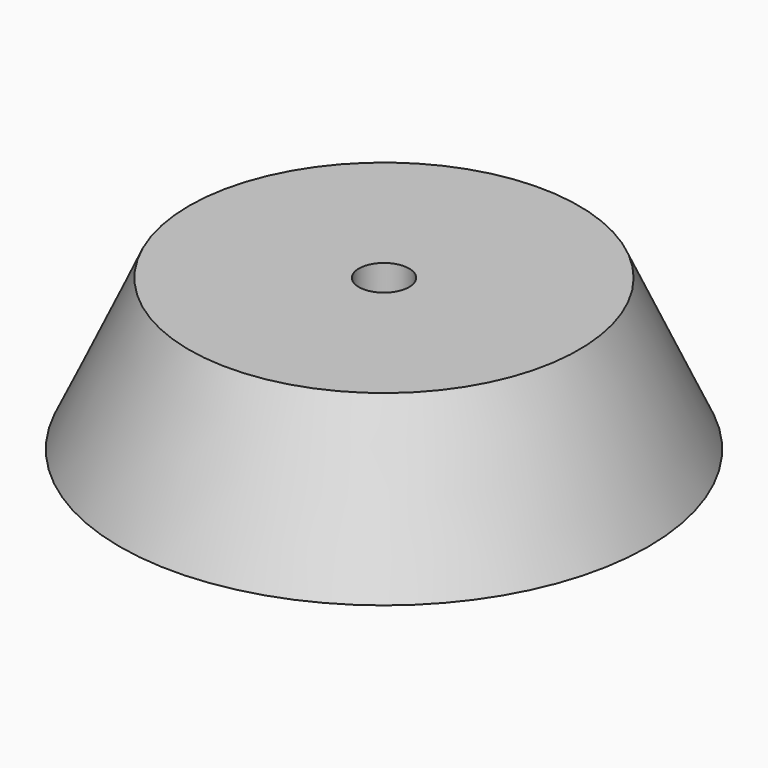
from build123d import *

# Parameters (mm, degrees)
F3_D = 4


with BuildPart() as f1:
    # F0 (on Front) → F1 (revolve)
    with BuildSketch(Plane.XZ):
        Polygon((-15.5, 12), (-21, 0), (-10, 0), (-10, 5), (0, 5), (0, 12), align=None)
    revolve(axis=Axis((0, 0, 8.5), (0, 0, -1)))

    # F3 (through all)
    with Locations(Plane.XY.offset(12)):
        with Locations((0, 0)):
            Hole(F3_D / 2)


solid = f1.part
